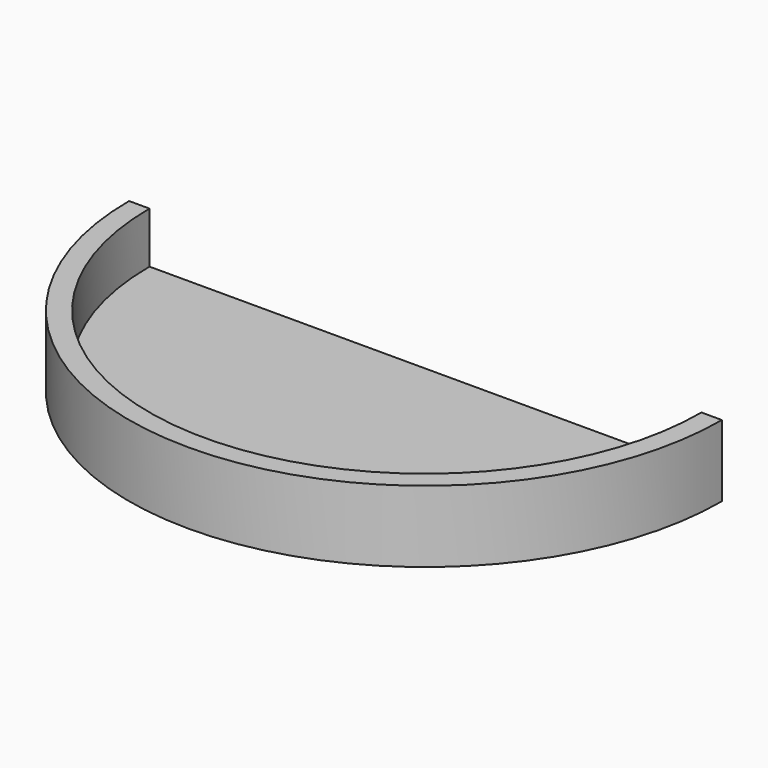
from build123d import *

# Parameters (mm, degrees)
F1_DEPTH = 2
F3_DEPTH = 5


with BuildPart() as f1:
    # F0 (on Top) → F1 (new body)
    with BuildSketch(Plane.XY):
        with BuildLine():
            Line((-27, -45), (-29, -45))
            ThreePointArc((-29, -45), (0, -74), (29, -45))
            Line((29, -45), (27, -45))
            Line((27, -45), (-27, -45))
        make_face()
    extrude(amount=F1_DEPTH)

    # F2 (on face) → F3 (join)
    with BuildSketch(Plane.XY.offset(2)):
        with BuildLine():
            ThreePointArc((27, -45), (0, -72), (-27, -45))
            Line((-27, -45), (-29, -45))
            ThreePointArc((-29, -45), (0, -74), (29, -45))
            Line((29, -45), (27, -45))
        make_face()
    extrude(amount=F3_DEPTH)


solid = f1.part
